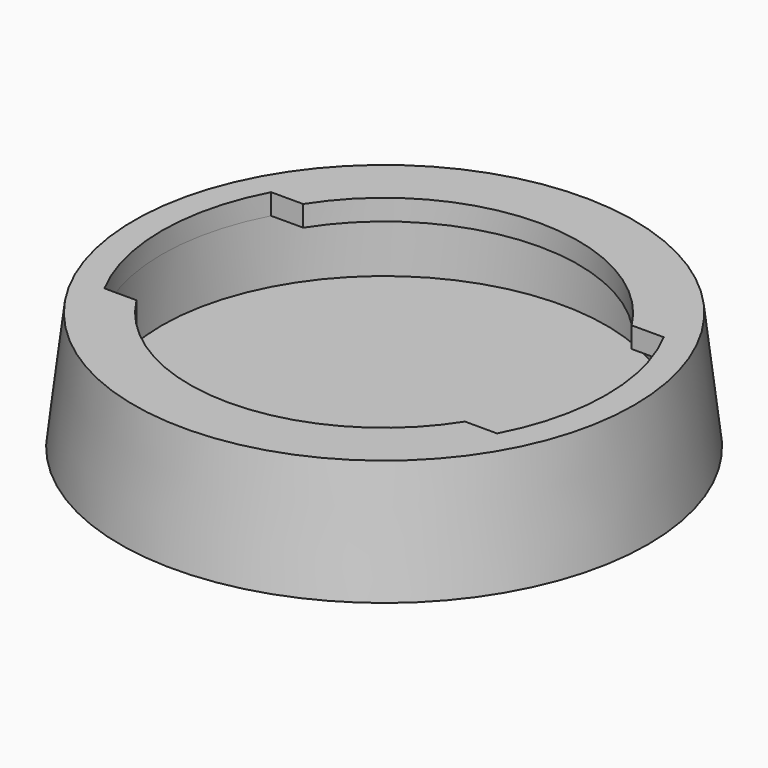
from build123d import *

# Parameters (mm, degrees)
POCKET_DEPTH = 12.001


with BuildPart() as part:
    # Sketch → Revolution (revolve)
    with BuildSketch(Plane.XZ):
        Polygon((0, 0), (38, 0), (36, 17), (28, 17), (28, 14), (32, 14), (32, 5), (0, 5), align=None)
    revolve(axis=Axis((0, 0, 0), (0, 0, 1)))

    # Sketch001 (on Face7 of Revolution) → Pocket (cut, through all)
    with BuildSketch(Plane(origin=(0, 0, 5), x_dir=(-1, 0, 0), z_dir=(0, 0, 1))):
        with BuildLine():
            ThreePointArc((28.266588, -15), (32, 0), (28.266588, 15))
            Line((28.266588, 15), (-28.266588, 15))
            ThreePointArc((-28.266588, 15), (-32, 0), (-28.266588, -15))
            Line((28.266588, -15), (-28.266588, -15))
        make_face()
    extrude(amount=POCKET_DEPTH, mode=Mode.SUBTRACT)


solid = part.part
